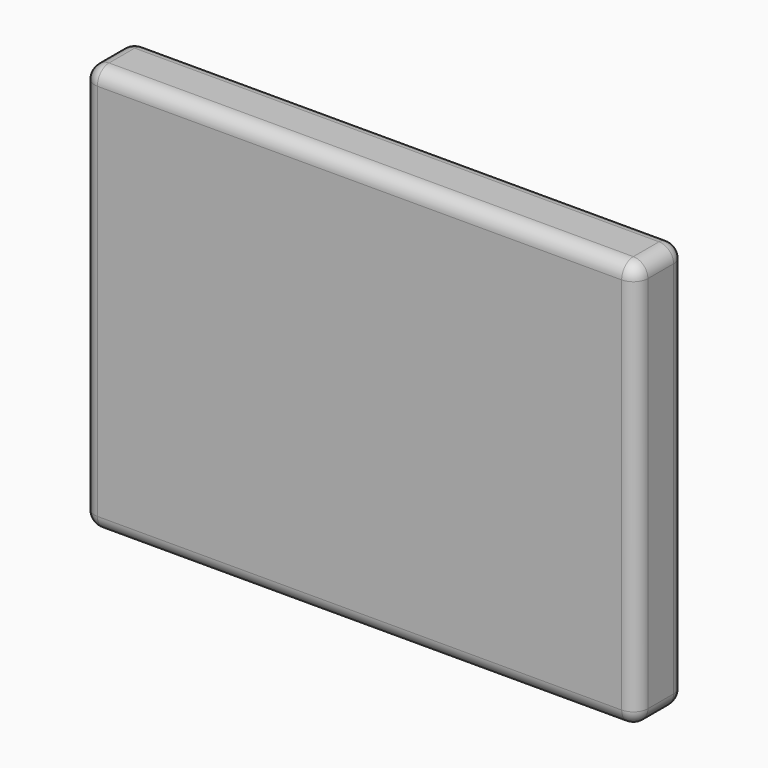
from build123d import *

# Parameters (mm, degrees)
F0_W     = 1900
F0_H     = 1400
F1_DEPTH = 105
F2_R     = 50
F3_R     = 50


with BuildPart() as f1:
    # F0 (on Front) → F1 (new body, symmetric)
    with BuildSketch(Plane.XZ):
        with Locations((-50, 0)):
            Rectangle(F0_W, F0_H)
    extrude(amount=F1_DEPTH, both=True)

    # F2
    f2_edges = [f1.edges().sort_by_distance(p)[0] for p in [
        (-1000, 0, 700),
        (900, 0, 700),
        (900, 0, -700),
        (-1000, 0, -700),
    ]]
    fillet(f2_edges, radius=F2_R)

    # F3
    f3_edges = [f1.edges().sort_by_distance(p)[0] for p in [
        (-50, -105, 700),
        (885.355339, -105, 685.355339),
        (-985.355339, -105, 685.355339),
        (900, -105, 0),
        (-1000, -105, 0),
        (885.355339, -105, -685.355339),
        (-985.355339, -105, -685.355339),
        (-50, -105, -700),
        (-50, 105, 700),
        (885.355339, 105, 685.355339),
        (-985.355339, 105, 685.355339),
        (900, 105, 0),
        (-1000, 105, 0),
        (885.355339, 105, -685.355339),
        (-985.355339, 105, -685.355339),
        (-50, 105, -700),
    ]]
    fillet(f3_edges, radius=F3_R)


solid = f1.part
